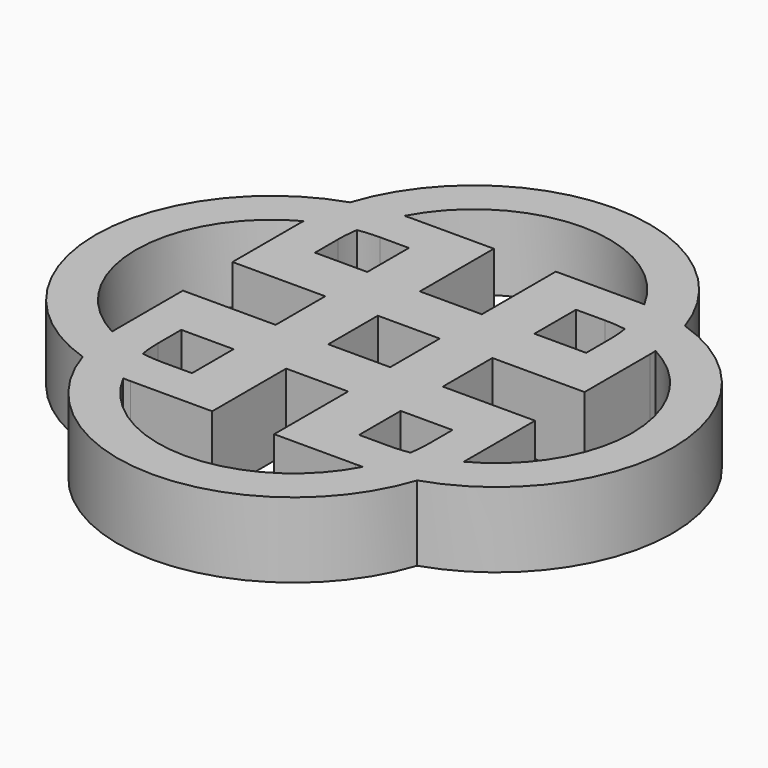
from build123d import *

# Parameters (mm, degrees)
F0_W     = 1.4
F0_H     = 1.4
F0_W_2   = 1.65
F0_H_2   = 1.65
F1_DEPTH = 2


with BuildPart() as f1:
    # F0 (on Top) → F1 (new body)
    with BuildSketch(Plane.XY):
        with BuildLine():
            ThreePointArc((-21.2961866601, -12.2818885401), (-21.155367688, -11.7070138204), (-20.9225061022, -11.1628755952))
            ThreePointArc((-20.9225061022, -11.1628755952), (-21.5623124485, -11.234937617), (-22.186206323, -11.3940021608))
            ThreePointArc((-22.186206323, -11.3940021608), (-22.3437732086, -12.0182759568), (-22.4142996364, -12.6582533929))
            ThreePointArc((-22.4142996364, -12.6582533929), (-21.8707217917, -12.4240866724), (-21.2961866601, -12.2818885401))
        make_face()
        with BuildLine():
            ThreePointArc((-22.186206323, -11.3940021608), (-21.5623124485, -11.234937617), (-20.9225061022, -11.1628755952))
            ThreePointArc((-20.9225061022, -11.1628755952), (-17.7315900511, -9.2404582472), (-14.5403036541, -11.1622607443))
            ThreePointArc((-14.5403036541, -11.1622607443), (-13.9013713953, -11.2321194541), (-13.278004152, -11.3887334725))
            ThreePointArc((-13.278004152, -11.3887334725), (-17.7340143596, -8.1634590502), (-22.186206323, -11.3940021608))
        make_face()
        with BuildLine():
            ThreePointArc((-22.4142996364, -12.6582533929), (-22.3437732086, -12.0182759568), (-22.186206323, -11.3940021608))
            ThreePointArc((-22.186206323, -11.3940021608), (-25.4060635692, -15.8454582305), (-22.186206323, -20.2969143001))
            ThreePointArc((-22.186206323, -20.2969143001), (-22.3437732086, -19.6726405041), (-22.4142996364, -19.032663068))
            ThreePointArc((-22.4142996364, -19.032663068), (-24.3290635692, -15.8454582305), (-22.4142996364, -12.6582533929))
        make_face()
        with BuildLine():
            ThreePointArc((-13.278004152, -11.3887334725), (-13.9013713953, -11.2321194541), (-14.5403036541, -11.1622607443))
            ThreePointArc((-14.5403036541, -11.1622607443), (-14.3076050054, -11.7055530453), (-14.1666742594, -12.2795336289))
            ThreePointArc((-14.1666742594, -12.2795336289), (-13.5923579293, -12.4190898486), (-13.0485100994, -12.6504871765))
            ThreePointArc((-13.0485100994, -12.6504871765), (-13.1198982272, -12.011723992), (-13.278004152, -11.3887334725))
        make_face()
        with BuildLine():
            ThreePointArc((-22.4142996364, -19.032663068), (-22.3437732086, -19.6726405041), (-22.186206323, -20.2969143001))
            ThreePointArc((-22.186206323, -20.2969143001), (-21.5623124485, -20.455978844), (-20.9225061022, -20.5280408657))
            ThreePointArc((-20.9225061022, -20.5280408657), (-21.155367688, -19.9839026405), (-21.2961866601, -19.4090279208))
            ThreePointArc((-21.2961866601, -19.4090279208), (-21.8707217917, -19.2668297885), (-22.4142996364, -19.032663068))
        make_face()
        with BuildLine():
            ThreePointArc((-20.9225061022, -20.5280408657), (-21.5623124485, -20.455978844), (-22.186206323, -20.2969143001))
            ThreePointArc((-22.186206323, -20.2969143001), (-17.7340143596, -23.5274574107), (-13.278004152, -20.3021829884))
            ThreePointArc((-13.278004152, -20.3021829884), (-13.9013713953, -20.4587970068), (-14.5403036541, -20.5286557166))
            ThreePointArc((-14.5403036541, -20.5286557166), (-17.7315900511, -22.4504582137), (-20.9225061022, -20.5280408657))
        make_face()
        with BuildLine():
            ThreePointArc((-13.278004152, -20.3021829884), (-10.0420635692, -15.8454582305), (-13.278004152, -11.3887334725))
            ThreePointArc((-13.278004152, -11.3887334725), (-13.1198982272, -12.011723992), (-13.0485100994, -12.6504871765))
            ThreePointArc((-13.0485100994, -12.6504871765), (-11.1190635692, -15.8454582305), (-13.0485100994, -19.0404292844))
            ThreePointArc((-13.0485100994, -19.0404292844), (-13.1198982272, -19.6791924689), (-13.278004152, -20.3021829884))
        make_face()
        with BuildLine():
            ThreePointArc((-14.5403036541, -20.5286557166), (-13.9013713953, -20.4587970068), (-13.278004152, -20.3021829884))
            ThreePointArc((-13.278004152, -20.3021829884), (-13.1198982272, -19.6791924689), (-13.0485100994, -19.0404292844))
            ThreePointArc((-13.0485100994, -19.0404292844), (-13.5923579293, -19.2718266123), (-14.1666742594, -19.4113828321))
            ThreePointArc((-14.1666742594, -19.4113828321), (-14.3076050054, -19.9853634156), (-14.5403036541, -20.5286557166))
        make_face()
        with BuildLine():
            ThreePointArc((-21.3412422696, -12.8504582305), (-21.3299607394, -12.565282188), (-21.2961866601, -12.2818885401))
            ThreePointArc((-21.2961866601, -12.2818885401), (-21.8707217917, -12.4240866724), (-22.4142996364, -12.6582533929))
            ThreePointArc((-22.4142996364, -12.6582533929), (-22.4172565076, -12.7543355953), (-22.4182422696, -12.8504582305))
            Line((-22.4182422696, -12.8504582305), (-22.4182422696, -15.0204582305))
            Line((-22.4182422696, -15.0204582305), (-19.9490635692, -15.0204582305))
            Line((-19.9490635692, -15.0204582305), (-19.9490635692, -13.6204582305))
            Line((-19.9490635692, -13.6204582305), (-21.3412422696, -13.6204582305))
            Line((-21.3412422696, -13.6204582305), (-21.3412422696, -12.8504582305))
        make_face()
        with Locations((-19.2490635692, -14.3204582305)):
            Rectangle(F0_W, F0_H)
        with BuildLine():
            Line((-18.5490635692, -11.1584582305), (-20.7190635692, -11.1584582305))
            ThreePointArc((-20.7190635692, -11.1584582305), (-20.8208088115, -11.1595627018), (-20.9225061022, -11.1628755952))
            ThreePointArc((-20.9225061022, -11.1628755952), (-21.155367688, -11.7070138204), (-21.2961866601, -12.2818885401))
            ThreePointArc((-21.2961866601, -12.2818885401), (-21.0085574533, -12.2470845296), (-20.7190635692, -12.2354582305))
            Line((-20.7190635692, -12.2354582305), (-19.9490635692, -12.2354582305))
            Line((-19.9490635692, -12.2354582305), (-19.9490635692, -13.6204582305))
            Line((-19.9490635692, -13.6204582305), (-18.5490635692, -13.6204582305))
            Line((-18.5490635692, -13.6204582305), (-18.5490635692, -11.1584582305))
        make_face()
        with Locations((-17.7240635692, -14.3204582305)):
            Rectangle(F0_W_2, F0_H)
        with Locations((-16.1990635692, -14.3204582305)):
            Rectangle(F0_W, F0_H)
        with BuildLine():
            ThreePointArc((-13.0485100994, -12.6504871765), (-13.5923579293, -12.4190898486), (-14.1666742594, -12.2795336289))
            ThreePointArc((-14.1666742594, -12.2795336289), (-14.1326181911, -12.5640935301), (-14.1212422696, -12.8504582305))
            Line((-14.1212422696, -12.8504582305), (-14.1212422696, -13.6204582305))
            Line((-14.1212422696, -13.6204582305), (-15.4990635692, -13.6204582305))
            Line((-15.4990635692, -13.6204582305), (-15.4990635692, -15.0204582305))
            Line((-15.4990635692, -15.0204582305), (-13.0442422696, -15.0204582305))
            Line((-13.0442422696, -15.0204582305), (-13.0442422696, -12.8504582305))
            ThreePointArc((-13.0442422696, -12.8504582305), (-13.0453093485, -12.7504499348), (-13.0485100994, -12.6504871765))
        make_face()
        with BuildLine():
            ThreePointArc((-14.1666742594, -12.2795336289), (-14.3076050054, -11.7055530453), (-14.5403036541, -11.1622607443))
            ThreePointArc((-14.5403036541, -11.1622607443), (-14.6346644635, -11.1594089553), (-14.7290635692, -11.1584582305))
            Line((-14.7290635692, -11.1584582305), (-16.8990635692, -11.1584582305))
            Line((-16.8990635692, -11.1584582305), (-16.8990635692, -13.6204582305))
            Line((-16.8990635692, -13.6204582305), (-15.4990635692, -13.6204582305))
            Line((-15.4990635692, -13.6204582305), (-15.4990635692, -12.2354582305))
            Line((-15.4990635692, -12.2354582305), (-14.7290635692, -12.2354582305))
            ThreePointArc((-14.7290635692, -12.2354582305), (-14.4470066704, -12.2464939481), (-14.1666742594, -12.2795336289))
        make_face()
        with BuildLine():
            ThreePointArc((-14.7290635692, -20.5324582305), (-14.6346644635, -20.5315075056), (-14.5403036541, -20.5286557166))
            ThreePointArc((-14.5403036541, -20.5286557166), (-14.3076050054, -19.9853634156), (-14.1666742594, -19.4113828321))
            ThreePointArc((-14.1666742594, -19.4113828321), (-14.4470066704, -19.4444225128), (-14.7290635692, -19.4554582305))
            Line((-14.7290635692, -19.4554582305), (-15.4990635692, -19.4554582305))
            Line((-15.4990635692, -19.4554582305), (-15.4990635692, -18.0704582305))
            Line((-15.4990635692, -18.0704582305), (-16.8990635692, -18.0704582305))
            Line((-16.8990635692, -18.0704582305), (-16.8990635692, -20.5324582305))
            Line((-16.8990635692, -20.5324582305), (-14.7290635692, -20.5324582305))
        make_face()
        with BuildLine():
            ThreePointArc((-14.1666742594, -19.4113828321), (-13.5923579293, -19.2718266123), (-13.0485100994, -19.0404292844))
            ThreePointArc((-13.0485100994, -19.0404292844), (-13.0453093485, -18.9404665261), (-13.0442422696, -18.8404582305))
            Line((-13.0442422696, -18.8404582305), (-13.0442422696, -16.6704582305))
            Line((-13.0442422696, -16.6704582305), (-15.4990635692, -16.6704582305))
            Line((-15.4990635692, -16.6704582305), (-15.4990635692, -18.0704582305))
            Line((-15.4990635692, -18.0704582305), (-14.1212422696, -18.0704582305))
            Line((-14.1212422696, -18.0704582305), (-14.1212422696, -18.8404582305))
            ThreePointArc((-14.1212422696, -18.8404582305), (-14.1326181911, -19.1268229308), (-14.1666742594, -19.4113828321))
        make_face()
        with Locations((-16.1990635692, -17.3704582305)):
            Rectangle(F0_W, F0_H)
        with Locations((-16.1990635692, -15.8454582305)):
            Rectangle(F0_W, F0_H_2)
        with Locations((-19.2490635692, -17.3704582305)):
            Rectangle(F0_W, F0_H)
        with Locations((-19.2490635692, -15.8454582305)):
            Rectangle(F0_W, F0_H_2)
        with Locations((-17.7240635692, -17.3704582305)):
            Rectangle(F0_W_2, F0_H)
        with BuildLine():
            ThreePointArc((-21.2961866601, -19.4090279208), (-21.155367688, -19.9839026405), (-20.9225061022, -20.5280408657))
            ThreePointArc((-20.9225061022, -20.5280408657), (-20.8208088115, -20.5313537591), (-20.7190635692, -20.5324582305))
            Line((-20.7190635692, -20.5324582305), (-18.5490635692, -20.5324582305))
            Line((-18.5490635692, -20.5324582305), (-18.5490635692, -18.0704582305))
            Line((-18.5490635692, -18.0704582305), (-19.9490635692, -18.0704582305))
            Line((-19.9490635692, -18.0704582305), (-19.9490635692, -19.4554582305))
            Line((-19.9490635692, -19.4554582305), (-20.7190635692, -19.4554582305))
            ThreePointArc((-20.7190635692, -19.4554582305), (-21.0085574533, -19.4438319313), (-21.2961866601, -19.4090279208))
        make_face()
        with BuildLine():
            ThreePointArc((-22.4182422696, -18.8404582305), (-22.4172565076, -18.9365808656), (-22.4142996364, -19.032663068))
            ThreePointArc((-22.4142996364, -19.032663068), (-21.8707217917, -19.2668297885), (-21.2961866601, -19.4090279208))
            ThreePointArc((-21.2961866601, -19.4090279208), (-21.3299607394, -19.1256342729), (-21.3412422696, -18.8404582305))
            Line((-21.3412422696, -18.8404582305), (-21.3412422696, -18.0704582305))
            Line((-21.3412422696, -18.0704582305), (-19.9490635692, -18.0704582305))
            Line((-19.9490635692, -18.0704582305), (-19.9490635692, -16.6704582305))
            Line((-19.9490635692, -16.6704582305), (-22.4182422696, -16.6704582305))
            Line((-22.4182422696, -16.6704582305), (-22.4182422696, -18.8404582305))
        make_face()
    extrude(amount=F1_DEPTH)


solid = f1.part
